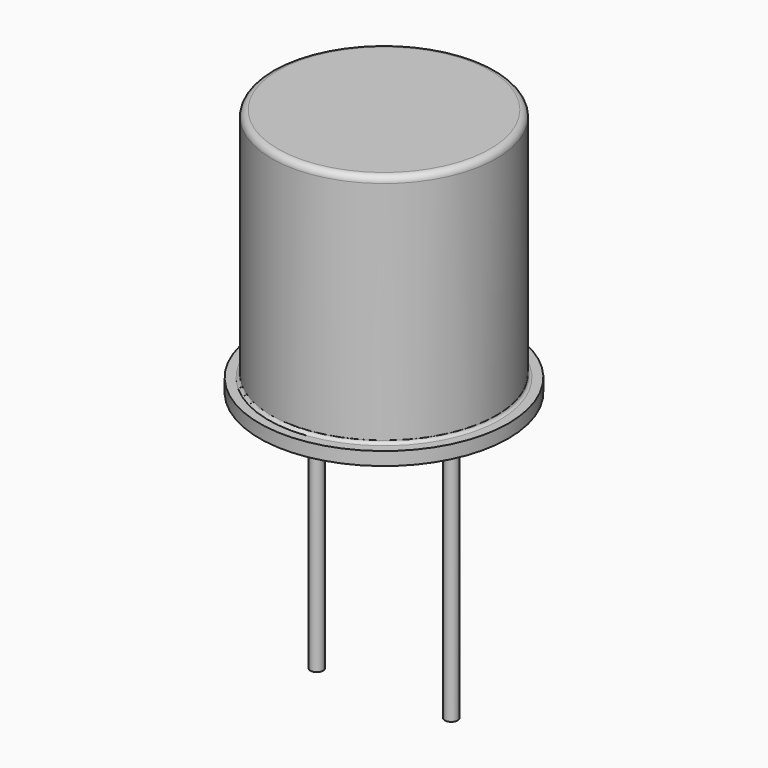
from build123d import *

# Parameters (mm, degrees)
SKETCH_R     = 0.24
PAD_DEPTH    = 10
PAD003_DEPTH = 0.5


with BuildPart() as pad:
    # Sketch → Pad (new body)
    with BuildSketch(Plane.XY.offset(5)):
        Circle(SKETCH_R)
        with Locations((5.08, 0)):
            Circle(SKETCH_R)
    extrude(amount=-PAD_DEPTH)


with BuildPart() as revolution:
    # Sketch003 → Revolution (revolve)
    with BuildSketch(Plane.XZ):
        with BuildLine():
            Line((2.54, 5), (-2.16, 5))
            Line((-2.16, 5), (-2.16, 5.5))
            Line((-2.16, 5.5), (-1.825033, 5.502932))
            ThreePointArc((-1.825033, 5.502932), (-1.743632, 5.537278), (-1.71, 5.618977))
            Line((-1.71, 5.618977), (-1.71, 14.157373))
            ThreePointArc((-1.467373, 14.4), (-1.638936, 14.328936), (-1.71, 14.157373))
            Line((-1.467373, 14.4), (2.54, 14.4))
            Line((2.54, 14.4), (2.54, 5))
        make_face()
    revolve(axis=Axis((2.54, 0, 2.550668), (0, 0, 1)))


with BuildPart() as pad003:
    # Sketch004 → Pad003 (new body)
    with BuildSketch(Plane.XY.offset(5)):
        Polygon((2.844056, 0.304056), (-1.186453, 4.334565), (-1.794565, 3.726453), (2.235944, -0.304056), align=None)
    extrude(amount=PAD003_DEPTH)


solid = Compound([pad.part, revolution.part, pad003.part])
